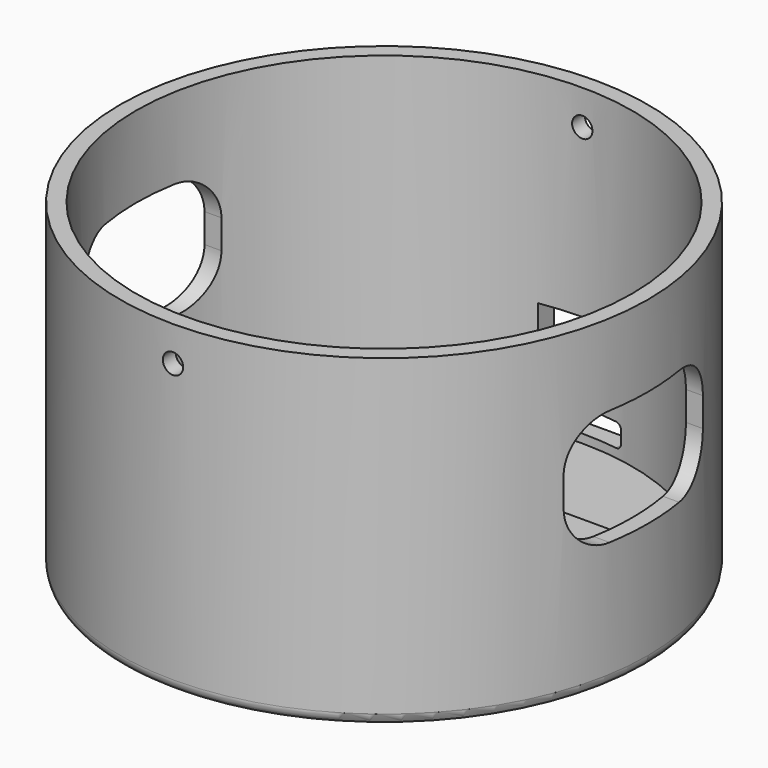
from build123d import *

# Parameters (mm, degrees)
SKETCH_R        = 45.5
PAD_DEPTH       = 56
SKETCH001_R     = 42.75
POCKET_DEPTH    = 54
SKETCH002_W     = 20
SKETCH002_H     = 15
PAD001_DEPTH    = 12
SKETCH003_W     = 30
SKETCH003_H     = 20
POCKET001_DEPTH = 60
SKETCH004_W     = 18
SKETCH004_H     = 2.55
PAD002_DEPTH    = 23
SKETCH005_W     = 14.3
SKETCH005_H     = 4
SKETCH005_H_2   = 9.7
POCKET002_DEPTH = 5
SKETCH007_R     = 1.75
POCKET003_DEPTH = 60
FILLET_R        = 2
FILLET001_R     = 2
FILLET002_R     = 1
FILLET003_R     = 7.5
SKETCH006_R     = 1.75
POCKET004_DEPTH = 2.5


with BuildPart() as part:
    # Sketch → Pad (new body)
    with BuildSketch(Plane.XY):
        Circle(SKETCH_R)
    extrude(amount=PAD_DEPTH)

    # Sketch001 (on Face3 of Pad) → Pocket (cut)
    with BuildSketch(Plane.XY.offset(56)):
        Circle(SKETCH001_R)
    extrude(amount=-POCKET_DEPTH, mode=Mode.SUBTRACT)

    # Sketch002 (on Face5 of Pocket) → Pad001 (join)
    with BuildSketch(Plane.XY.offset(2)):
        with Locations((-34, 0)):
            Rectangle(SKETCH002_W, SKETCH002_H)
        with Locations((34, 0)):
            Rectangle(SKETCH002_W, SKETCH002_H)
    extrude(amount=PAD001_DEPTH)

    # Sketch003 → Pocket001 (cut, symmetric)
    with BuildSketch(Plane.YZ):
        with Locations((0, 32)):
            Rectangle(SKETCH003_W, SKETCH003_H)
    extrude(amount=POCKET001_DEPTH, both=True, mode=Mode.SUBTRACT)

    # Sketch004 → Pad002 (join)
    with BuildSketch(Plane.XY):
        with Locations((0, 44.275)):
            Rectangle(SKETCH004_W, SKETCH004_H)
    extrude(amount=PAD002_DEPTH)

    # Sketch005 (on Face15 of Pad002) → Pocket002 (cut)
    with BuildSketch(Plane(origin=(0, 45.55, 0), x_dir=(-1, 0, 0), z_dir=(0, 1, 0))):
        with Locations((0, 5.5)):
            Rectangle(SKETCH005_W, SKETCH005_H)
        with Locations((0, 16.35)):
            Rectangle(SKETCH005_W, SKETCH005_H_2)
    extrude(amount=-POCKET002_DEPTH, mode=Mode.SUBTRACT)

    # Sketch007 → Pocket003 (cut, symmetric)
    with BuildSketch(Plane.XZ):
        with Locations((0, 50)):
            Circle(SKETCH007_R)
    extrude(amount=POCKET003_DEPTH, both=True, mode=Mode.SUBTRACT)

    # Fillet
    fillet_edges = [part.edges().sort_by_distance(p)[0] for p in [
        (35.211859, 28.816228, 0),
        (-28.816228, -35.211859, 0),
    ]]
    fillet(fillet_edges, radius=FILLET_R)

    # Fillet001
    fillet001_edges = [part.edges().sort_by_distance(p)[0] for p in [
        (0, 45.55, 0),
    ]]
    fillet(fillet001_edges, radius=FILLET001_R)

    # Fillet002
    fillet002_edges = [part.edges().sort_by_distance(p)[0] for p in [
        (7.15, 43.848918, 3.5),
        (7.15, 43.848918, 7.5),
        (-7.15, 43.848918, 7.5),
        (-7.15, 43.848918, 3.5),
    ]]
    fillet(fillet002_edges, radius=FILLET002_R)

    # Fillet003
    fillet003_edges = [part.edges().sort_by_distance(p)[0] for p in [
        (41.494196, -15, 42),
        (41.494196, 15, 42),
        (41.494196, 15, 22),
        (41.494196, -15, 22),
        (-41.494196, 15, 42),
        (-41.494196, -15, 42),
        (-41.494196, 15, 22),
        (-41.494196, -15, 22),
    ]]
    fillet(fillet003_edges, radius=FILLET003_R)

    # Sketch006 → Pocket004 (cut, symmetric)
    with BuildSketch(Plane.XY):
        with Locations((-27, 27)):
            Circle(SKETCH006_R)
        with Locations((27, 27)):
            Circle(SKETCH006_R)
        with Locations((-27, -27)):
            Circle(SKETCH006_R)
        with Locations((27, -27)):
            Circle(SKETCH006_R)
    extrude(amount=POCKET004_DEPTH, both=True, mode=Mode.SUBTRACT)


solid = part.part
